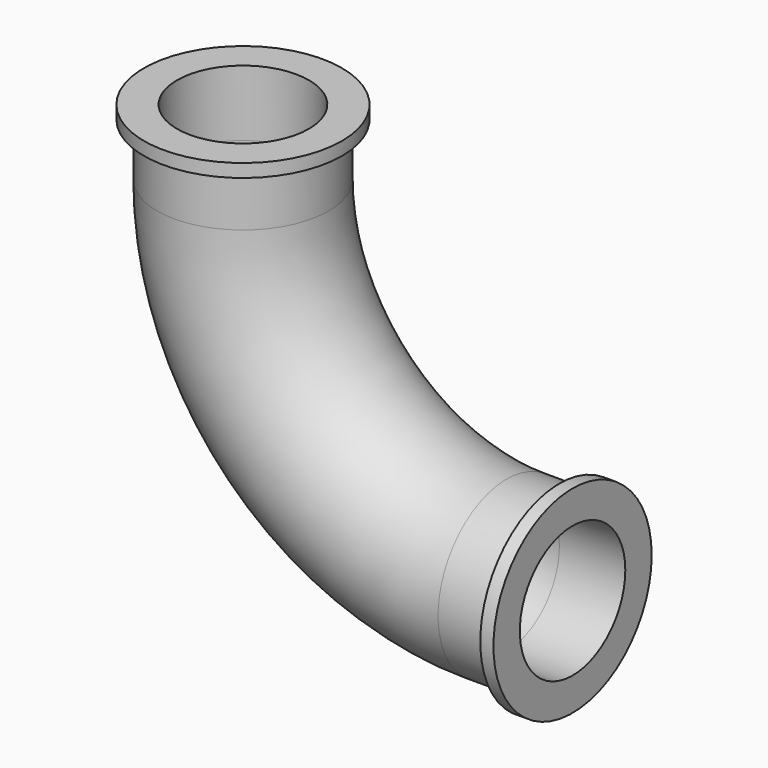
from build123d import *

# Parameters (mm, degrees)
F2_R     = 16.51
F2_R_2   = 12.7
F4_R     = 19.05
F4_R_2   = 12.7
F5_DEPTH = 2.54
F6_R     = 19.05
F6_R_2   = 12.7
F7_DEPTH = 2.54


with BuildPart() as f3:
    # F3: sweep along a path in F0
    with BuildLine(Plane.XZ) as f3_path:
        Line((12.7, 0), (0, 0))
        ThreePointArc((0, 0), (-35.921024, 14.878976), (-50.8, 50.8))
        Line((-50.8, 50.8), (-50.8, 63.5))
    # F2 (on offset) → F3 (sweep)
    with BuildSketch(Plane.YZ.offset(12.7)):
        Circle(F2_R)
        Circle(F2_R_2, mode=Mode.SUBTRACT)
    sweep(path=f3_path.line)

    # F4 (on face) → F5 (join)
    with BuildSketch(Plane.YZ.offset(12.7)):
        Circle(F4_R)
        Circle(F4_R_2, mode=Mode.SUBTRACT)
    extrude(amount=-F5_DEPTH)

    # F6 (on face) → F7 (join)
    with BuildSketch(Plane.XY.offset(63.5)):
        with Locations((-50.8, 0)):
            Circle(F6_R)
        with Locations((-50.8, 0)):
            Circle(F6_R_2, mode=Mode.SUBTRACT)
    extrude(amount=-F7_DEPTH)


solid = f3.part
